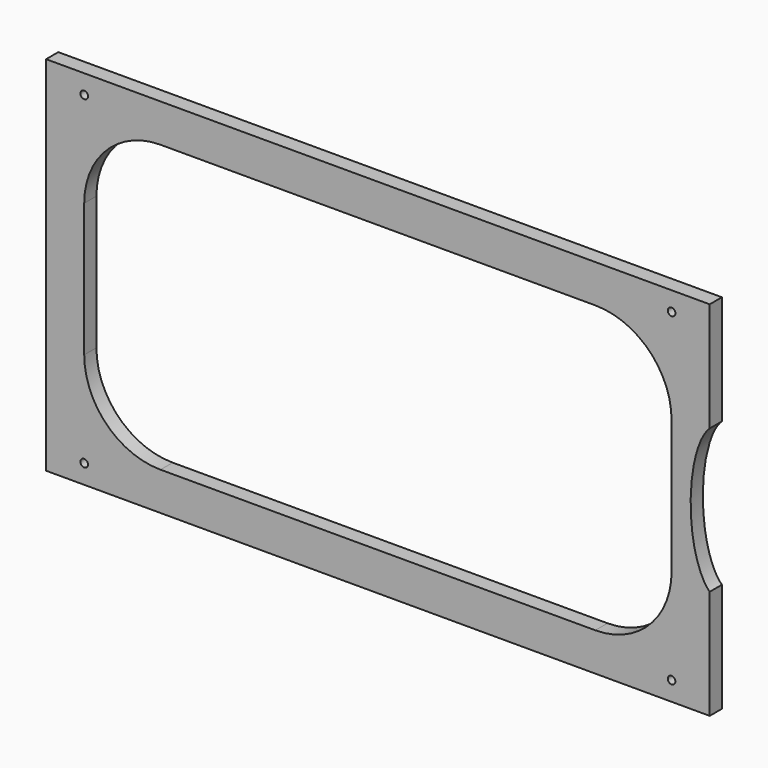
from build123d import *

# Parameters (mm, degrees)
F0_W     = 220.98
F0_H     = 120.65
F1_DEPTH = 5.08
F3_DEPTH = 5.081
F4_R     = 1.27
F5_DEPTH = 5.081


with BuildPart() as f1:
    # F0 (on Front) → F1 (new body)
    with BuildSketch(Plane.XZ):
        with Locations((110.49, 60.325)):
            Rectangle(F0_W, F0_H)
    extrude(amount=F1_DEPTH)

    # F2 (on face) → F3 (cut, through all)
    with BuildSketch(Plane.XZ.offset(5.08)):
        with BuildLine():
            Line((12.7, 82.55), (12.7, 38.1))
            ThreePointArc((12.7, 38.1), (20.139488, 20.139488), (38.1, 12.7))
            Line((38.1, 12.7), (182.88, 12.7))
            ThreePointArc((182.88, 12.7), (200.840512, 20.139488), (208.28, 38.1))
            Line((208.28, 38.1), (208.28, 82.55))
            ThreePointArc((208.28, 82.55), (200.840512, 100.510512), (182.88, 107.95))
            Line((182.88, 107.95), (38.1, 107.95))
            ThreePointArc((38.1, 107.95), (20.139488, 100.510512), (12.7, 82.55))
        make_face()
    extrude(amount=-F3_DEPTH, mode=Mode.SUBTRACT)

    # F4 (on face) → F5 (cut, through all)
    with BuildSketch(Plane.XZ.offset(5.08)):
        with Locations((12.7, 114.3)):
            Circle(F4_R)
        with Locations((12.7, 6.35)):
            Circle(F4_R)
        with Locations((208.28, 114.3)):
            Circle(F4_R)
        with Locations((208.28, 6.35)):
            Circle(F4_R)
        with BuildLine():
            add(Edge.make_bspline(
                [(224.155, 85.725), (207.657216, 85.725), (215.906108, 47.625), (224.155, 9.525), (232.403892, 47.625), (240.652784, 85.725), (224.155, 85.725)],
                knots=[0, 0, 0, 2.094395, 2.094395, 4.18879, 4.18879, 6.283185, 6.283185, 6.283185], degree=2, weights=[1, 0.5, 1, 0.5, 1, 0.5, 1]))
        make_face()
    extrude(amount=-F5_DEPTH, mode=Mode.SUBTRACT)


solid = f1.part
